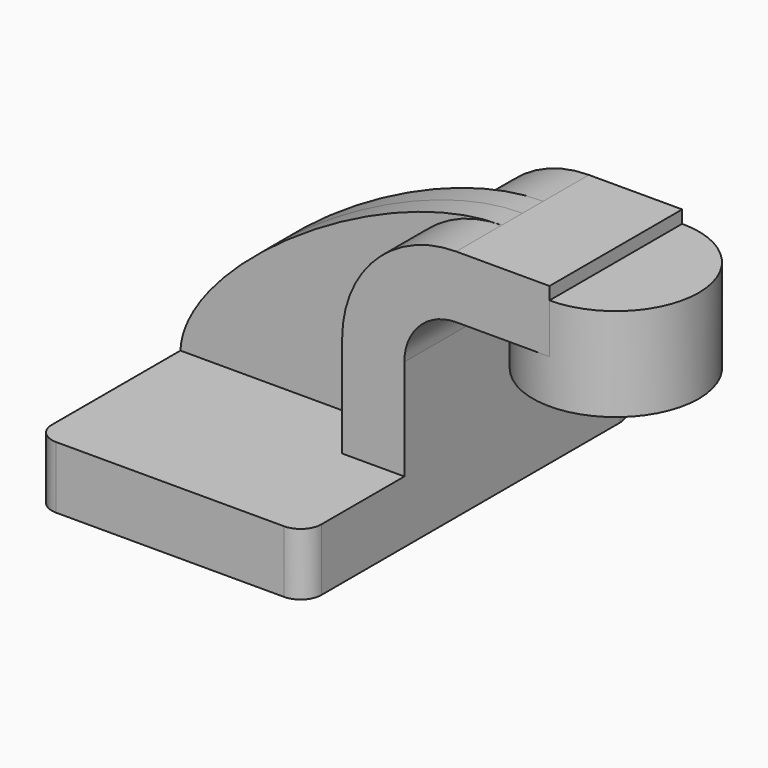
from build123d import *

# Parameters (mm, degrees)
F1_DEPTH = 63.5
F0_W     = 25.4
F0_H     = 15.1617553278
F2_DEPTH = 25.4
F3_DEPTH = 7.9375
F5_R     = 6.35


with BuildPart() as f1:
    # F0 (on Front) → F1 (new body, symmetric)
    with BuildSketch(Plane.XZ):
        Polygon((-41.275, 9.525), (-41.275, -9.525), (41.275, -9.525), (41.275, 9.525), (22.225, 9.525), align=None)
    extrude(amount=F1_DEPTH, both=True)

    # F0 (on Front) → F2 (join, symmetric)
    with BuildSketch(Plane.XZ):
        with BuildLine():
            Line((22.225, 9.525), (41.275, 9.525))
            Line((41.275, 9.525), (41.275, 40.4134446722))
            ThreePointArc((41.275, 40.4134446722), (45.9246798487, 51.6387648236), (57.15, 56.2884446722))
            Line((57.15, 56.2884446722), (60.325, 56.2884446722))
            Line((60.325, 56.2884446722), (60.325, 71.4502))
            Line((60.325, 71.4502), (85.725, 71.4502))
            Line((85.725, 71.4502), (85.725, 75.3384446722))
            Line((85.725, 75.3384446722), (57.15, 75.3384446722))
            ThreePointArc((57.15, 75.3384446722), (32.4542956671, 65.1091490052), (22.225, 40.4134446722))
            Line((22.225, 40.4134446722), (22.225, 9.525))
        make_face()
        with Locations((73.025, 63.8693223361)):
            Rectangle(F0_W, F0_H)
    extrude(amount=F2_DEPTH, both=True)

    # F0 (on Front) → F3 (join, symmetric)
    with BuildSketch(Plane.XZ):
        with BuildLine():
            add(Edge.make_bspline(
                [(-41.275, 9.525), (-40.1609577239, 35.0168719888), (19.9037119746, 75.5567997694), (57.15, 75.3384446722)],
                knots=[0, 0, 0, 0, 118.4013940992, 118.4013940992, 118.4013940992, 118.4013940992], degree=3))
            Line((-41.275, 9.525), (22.225, 9.525))
            Line((22.225, 9.525), (22.225, 40.4134446722))
            ThreePointArc((22.225, 40.4134446722), (32.4542956671, 65.1091490052), (57.15, 75.3384446722))
        make_face()
    extrude(amount=F3_DEPTH, both=True)

    # F0 (on Front) → F4 (revolve)
    with BuildSketch(Plane.XZ):
        Polygon((111.125, 71.4502), (85.725, 71.4502), (85.725, 56.2884446722), (85.725, 42.8752), (111.125, 42.8752), align=None)
    revolve(axis=Axis((85.725, 0, 59.1068223361), (0, 0, 1)))

    # F5
    f5_edges = [f1.edges().sort_by_distance(p)[0] for p in [
        (41.275, -63.5, 0),
        (-41.275, -63.5, 0),
        (-41.275, 63.5, 0),
        (41.275, 63.5, 0),
    ]]
    fillet(f5_edges, radius=F5_R)


solid = f1.part
